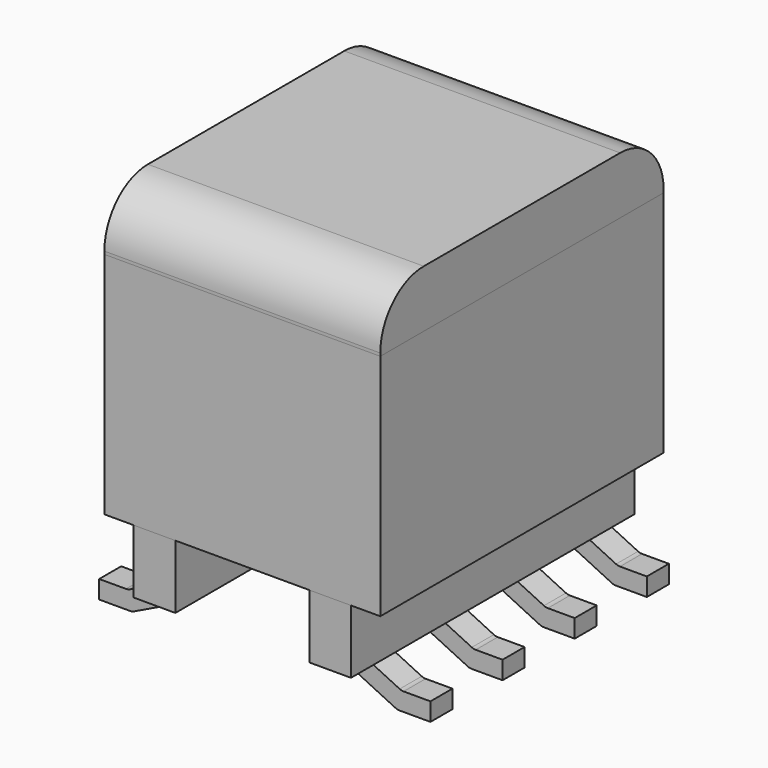
from build123d import *

# Parameters (mm, degrees)
F0_W      = 1.15
F0_H      = 9.78
F1_DEPTH  = 1.76
F2_W      = 7.62
F2_H      = 9.78
F3_DEPTH  = 6.32
F4_W      = 7.62
F4_H      = 9.78
F5_DEPTH  = 1.58
F7_DEPTH  = 25
F9_DEPTH  = 9.78
F10_W     = 0.775
F10_H     = 0.875
F10_W_2   = 1.73
F10_W_3   = 0.865
F11_DEPTH = 100


with BuildPart() as f1:
    # F0 (on Top) → F1 (new body)
    with BuildSketch(Plane.XY):
        with Locations((-2.425, 0)):
            Rectangle(F0_W, F0_H)
        with Locations((2.425, 0)):
            Rectangle(F0_W, F0_H)
    extrude(amount=F1_DEPTH)


with BuildPart() as f3:
    # F2 (on face) → F3 (new body)
    with BuildSketch(Plane.XY.offset(1.76)):
        Rectangle(F2_W, F2_H)
    extrude(amount=F3_DEPTH)


with BuildPart() as f5:
    # F4 (on face) → F5 (new body)
    with BuildSketch(Plane.XY.offset(8.08)):
        Rectangle(F4_W, F4_H)
    extrude(amount=F5_DEPTH)

    # F6 (on face) → F7 (cut)
    with BuildSketch(Plane(origin=(-3.81, 0, 0), x_dir=(0, -1, 0), z_dir=(-1, 0, 0))):
        with BuildLine():
            ThreePointArc((-4.89, 8.16), (-4.45066, 9.22066), (-3.39, 9.66))
            Line((-3.39, 9.66), (-4.89, 9.66))
            Line((-4.89, 9.66), (-4.89, 8.16))
        make_face()
        with BuildLine():
            ThreePointArc((3.39, 9.66), (4.45066, 9.22066), (4.89, 8.16))
            Line((4.89, 8.16), (4.89, 9.66))
            Line((4.89, 9.66), (3.39, 9.66))
        make_face()
    extrude(amount=-F7_DEPTH, mode=Mode.SUBTRACT)


with BuildPart() as f9:
    # F8 (on face) → F9 (new body)
    with BuildSketch(Plane(origin=(0, 4.89, 0), x_dir=(-1, 0, 0), z_dir=(0, 1, 0))):
        with BuildLine():
            Line((-3.833904, -0.375), (-4.574276, -0.375))
            Line((-4.574276, -0.375), (-4.574276, -0.875))
            Line((-4.574276, -0.875), (-3.71952, -0.875))
            ThreePointArc((-3.71952, -0.875), (-3.663768, -0.868704), (-3.610824, -0.850134))
            Line((-3.610824, -0.850134), (-1.85, 0))
            Line((-1.85, 0), (-3, 0))
            Line((-3, 0), (-3.725208, -0.350134))
            ThreePointArc((-3.725208, -0.350134), (-3.778152, -0.368704), (-3.833904, -0.375))
        make_face()
        with BuildLine():
            Line((4.574276, -0.375), (3.833904, -0.375))
            ThreePointArc((3.833904, -0.375), (3.778152, -0.368704), (3.725208, -0.350134))
            Line((3.725208, -0.350134), (3, 0))
            Line((3, 0), (1.85, 0))
            Line((1.85, 0), (3.610824, -0.850134))
            ThreePointArc((3.610824, -0.850134), (3.663768, -0.868704), (3.71952, -0.875))
            Line((3.71952, -0.875), (4.574276, -0.875))
            Line((4.574276, -0.875), (4.574276, -0.375))
        make_face()
    extrude(amount=-F9_DEPTH)

    # F10 (on face) → F11 (cut)
    with BuildSketch(Plane.YZ.offset(4.574276)):
        with Locations((-4.5025, -0.4375)):
            Rectangle(F10_W, F10_H)
        with Locations((-2.49, -0.4375)):
            Rectangle(F10_W_2, F10_H)
        with Locations((-0.4325, -0.4375)):
            Rectangle(F10_W_3, F10_H)
        with Locations((0.4325, -0.4375)):
            Rectangle(F10_W_3, F10_H)
        with Locations((4.5025, -0.4375)):
            Rectangle(F10_W, F10_H)
        with Locations((2.49, -0.4375)):
            Rectangle(F10_W_2, F10_H)
    extrude(amount=-F11_DEPTH, mode=Mode.SUBTRACT)


solid = Compound([f1.part, f3.part, f5.part, f9.part])
